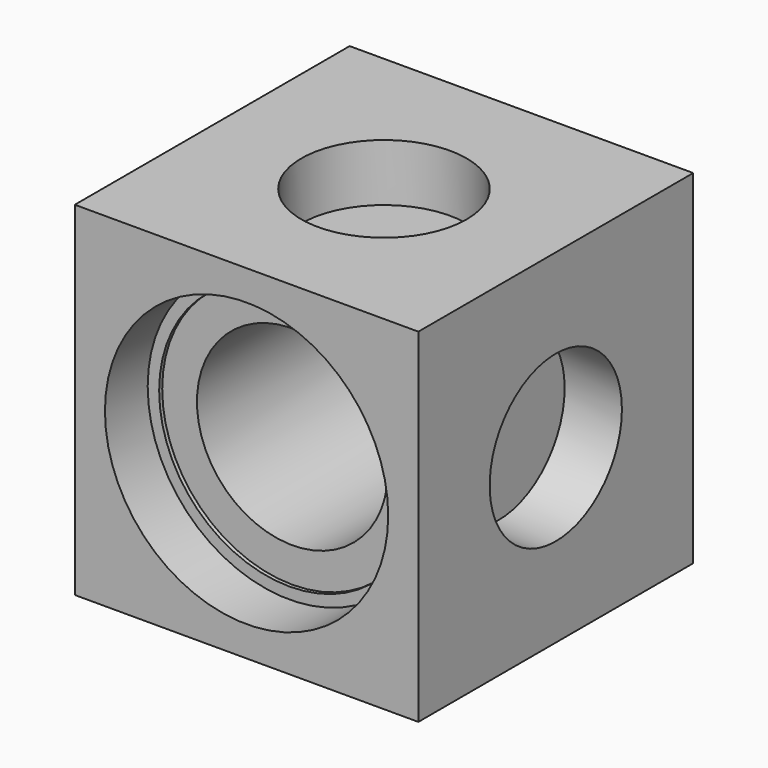
from build123d import *

# Parameters (mm, degrees)
F0_W     = 45
F0_H     = 45
F0_R     = 2
F0_R_2   = 18.55
F1_DEPTH = 22.5
F0_R_3   = 17.05
F2_DEPTH = 15.5
F0_R_4   = 12.5
F4_DEPTH = 15
F5_START = -15
F3_R     = 10.825
F5_DEPTH = 30
F6_START = 15
F6_DEPTH = 30
F8_START = 15
F7_R     = 10.825
F8_DEPTH = 10
F9_START = -15
F9_DEPTH = 10


with BuildPart() as f1:
    # F0 (on Front) → F1 (new body, symmetric)
    with BuildSketch(Plane.XZ):
        Rectangle(F0_W, F0_H)
        with Locations((-17.5, -17.5)):
            Circle(F0_R, mode=Mode.SUBTRACT)
        with Locations((17.5, -17.5)):
            Circle(F0_R, mode=Mode.SUBTRACT)
        with Locations((-17.5, 17.5)):
            Circle(F0_R, mode=Mode.SUBTRACT)
        Circle(F0_R_2, mode=Mode.SUBTRACT)
        with Locations((17.5, 17.5)):
            Circle(F0_R, mode=Mode.SUBTRACT)
        with Locations((-17.5, 17.5)):
            Circle(F0_R)
        with Locations((17.5, 17.5)):
            Circle(F0_R)
        with Locations((17.5, -17.5)):
            Circle(F0_R)
        with Locations((-17.5, -17.5)):
            Circle(F0_R)
    extrude(amount=F1_DEPTH, both=True)

    # F0 (on Front) → F2 (join, symmetric)
    with BuildSketch(Plane.XZ):
        Circle(F0_R_2)
        Circle(F0_R_3, mode=Mode.SUBTRACT)
    extrude(amount=F2_DEPTH, both=True)

    # F0 (on Front) → F4 (join, symmetric)
    with BuildSketch(Plane.XZ):
        Circle(F0_R_3)
        Circle(F0_R_4, mode=Mode.SUBTRACT)
    extrude(amount=F4_DEPTH, both=True)

    # F3 (on Right) → F5 (cut)
    with BuildSketch(Plane.YZ.offset(F5_START)):
        Circle(F3_R)
    extrude(amount=-F5_DEPTH, mode=Mode.SUBTRACT)

    # F3 (on Right) → F6 (cut)
    with BuildSketch(Plane.YZ.offset(F6_START)):
        Circle(F3_R)
    extrude(amount=F6_DEPTH, mode=Mode.SUBTRACT)

    # F7 (on Top) → F8 (cut)
    with BuildSketch(Plane.XY.offset(F8_START)):
        Circle(F7_R)
    extrude(amount=F8_DEPTH, mode=Mode.SUBTRACT)

    # F7 (on Top) → F9 (cut)
    with BuildSketch(Plane.XY.offset(F9_START)):
        Circle(F7_R)
    extrude(amount=-F9_DEPTH, mode=Mode.SUBTRACT)


solid = f1.part
